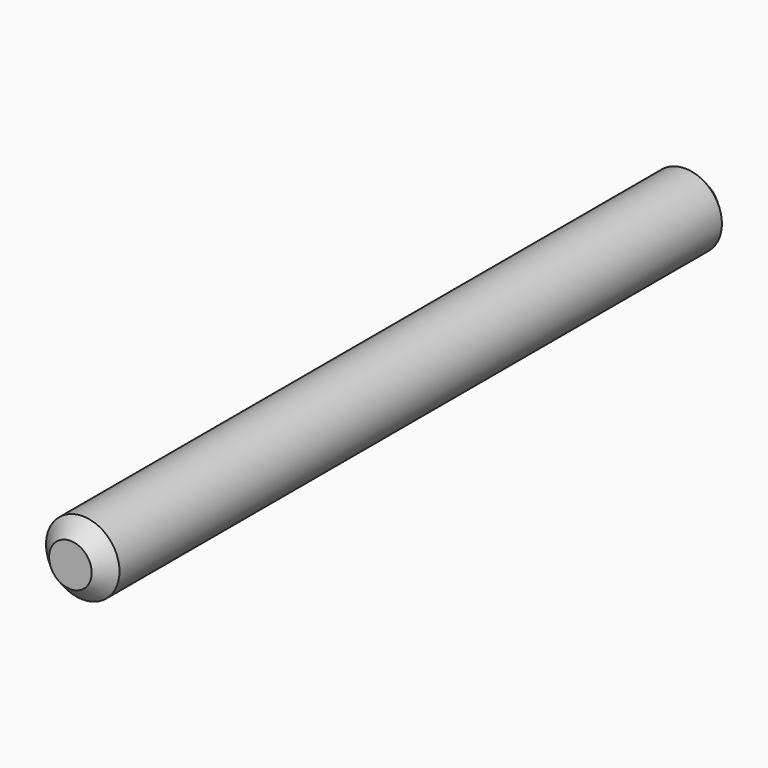
from build123d import *

# Parameters (mm, degrees)
SKETCH040_R     = 2.38125
PAD011_DEPTH    = 50.8
CHAMFER_SIZE    = 1
CHAMFER001_SIZE = 1


with BuildPart() as part:
    # Sketch040 → Pad011 (new body)
    with BuildSketch(Plane.XZ):
        Circle(SKETCH040_R)
    extrude(amount=PAD011_DEPTH)

    # Chamfer
    chamfer_edges = [part.edges().sort_by_distance(p)[0] for p in [
        (-2.38125, -50.8, 0),
    ]]
    chamfer(chamfer_edges, length=CHAMFER_SIZE)

    # Chamfer001
    chamfer001_edges = [part.edges().sort_by_distance(p)[0] for p in [
        (-2.38125, 0, 0),
    ]]
    chamfer(chamfer001_edges, length=CHAMFER001_SIZE)


solid = part.part
